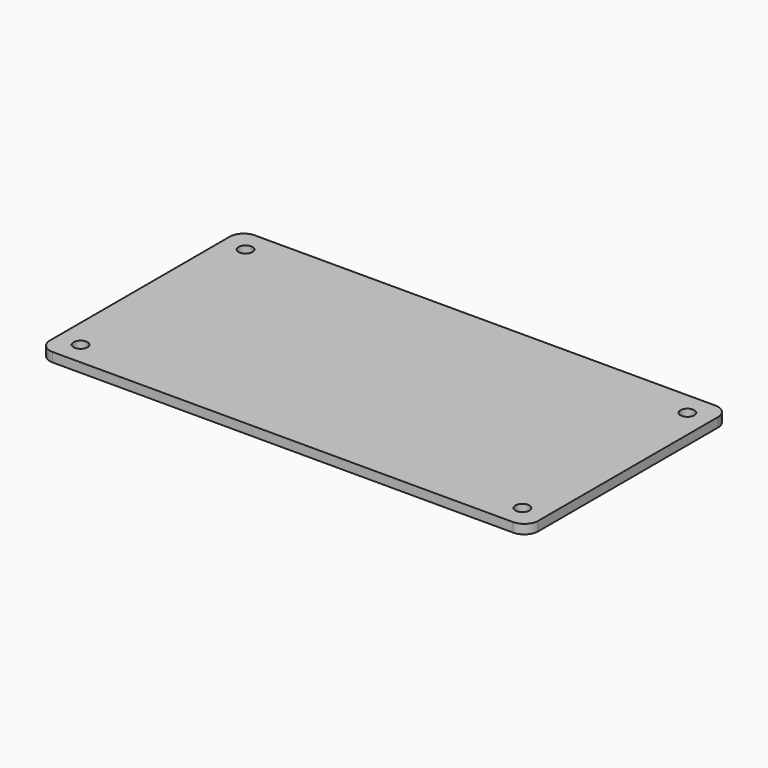
from build123d import *

# Parameters (mm, degrees)
PAD_DEPTH    = 2
SKETCH001_R  = 1.5
POCKET_DEPTH = 2.001


with BuildPart() as part:
    # Sketch → Pad (new body)
    with BuildSketch(Plane.XY):
        with BuildLine():
            Line((-52.625, 24.225), (-52.625, -24.225))
            ThreePointArc((-52.625, -24.225), (-51.74632, -26.34632), (-49.625, -27.225))
            Line((-49.625, -27.225), (49.625, -27.225))
            ThreePointArc((49.625, -27.225), (51.74632, -26.34632), (52.625, -24.225))
            Line((52.625, -24.225), (52.625, 24.225))
            ThreePointArc((52.625, 24.225), (51.74632, 26.34632), (49.625, 27.225))
            Line((49.625, 27.225), (-49.625, 27.225))
            ThreePointArc((-49.625, 27.225), (-51.74632, 26.34632), (-52.625, 24.225))
        make_face()
    extrude(amount=PAD_DEPTH)

    # Sketch001 (on Face10 of Pad) → Pocket (cut, through all)
    with BuildSketch(Plane.XY.offset(2)):
        with Locations((-47.625, -22.225)):
            Circle(SKETCH001_R)
        with Locations((47.625, -22.225)):
            Circle(SKETCH001_R)
        with Locations((47.625, 22.225)):
            Circle(SKETCH001_R)
        with Locations((-47.625, 22.225)):
            Circle(SKETCH001_R)
    extrude(amount=-POCKET_DEPTH, mode=Mode.SUBTRACT)


solid = part.part
